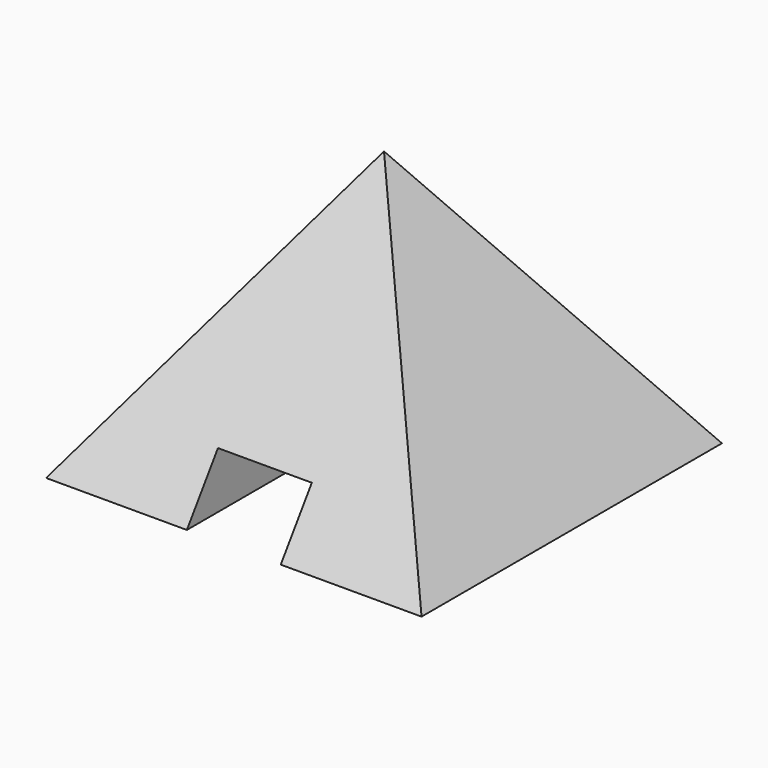
from build123d import *

# Parameters (mm, degrees)
F0_W     = 200
F0_H     = 200
F5_DEPTH = 150


with BuildPart() as f2:
    # F0 (on Top) → F2 section 0
    with BuildSketch(Plane.XY, mode=Mode.PRIVATE) as f2_s0:
        Rectangle(F0_W, F0_H)
    loft([f2_s0.sketch, Vertex(0, 0, 145.037781)])

    # F4 (on offset) → F5 (cut)
    with BuildSketch(Plane.XZ.offset(100)):
        Polygon((-25, 30), (-25, 0), (25, 0), (25, 30), (0, 30), align=None)
    extrude(amount=-F5_DEPTH, mode=Mode.SUBTRACT)


solid = f2.part
